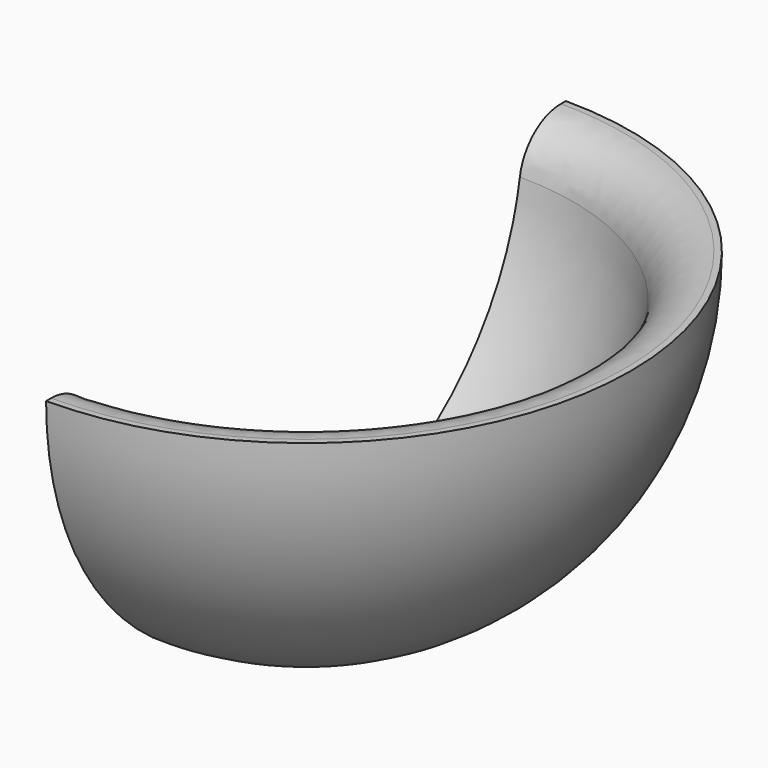
from build123d import *

# Parameters (mm, degrees)
F2_R     = 5.08
F3_W     = 75.227168
F3_H     = 48.306637
F4_DEPTH = 34.29


with BuildPart() as f1:
    # F0 (on Front) → F1 (revolve)
    with BuildSketch(Plane.XZ):
        with BuildLine():
            Line((-26.501408, 0), (-31.777891, 0))
            ThreePointArc((-31.777891, 0), (-24.236438, -20.553089), (-5.191517, -31.350958))
            Line((-5.191517, -31.350958), (-5.191517, -28.482988))
            Line((-5.191517, -28.482988), (-5.612337, -28.482988))
            Line((-5.612337, -28.482988), (-5.612337, -24.601767))
            Line((-5.612337, -24.601767), (-9.852801, -24.601767))
            ThreePointArc((-9.852801, -24.601767), (-21.948095, -14.852803), (-26.501408, 0))
        make_face()
    revolve(axis=Axis((0, 0, -28.432627), (0, 0, 1)))

    # F2
    f2_edges = [f1.edges().sort_by_distance(p)[0] for p in [
        (26.501408, 0, 0),
    ]]
    fillet(f2_edges, radius=F2_R)

    # F3 (on Right) → F4 (cut)
    with BuildSketch(Plane.YZ):
        with Locations((-0.6491, -24.153318)):
            Rectangle(F3_W, F3_H)
    extrude(amount=-F4_DEPTH, mode=Mode.SUBTRACT)


solid = f1.part
